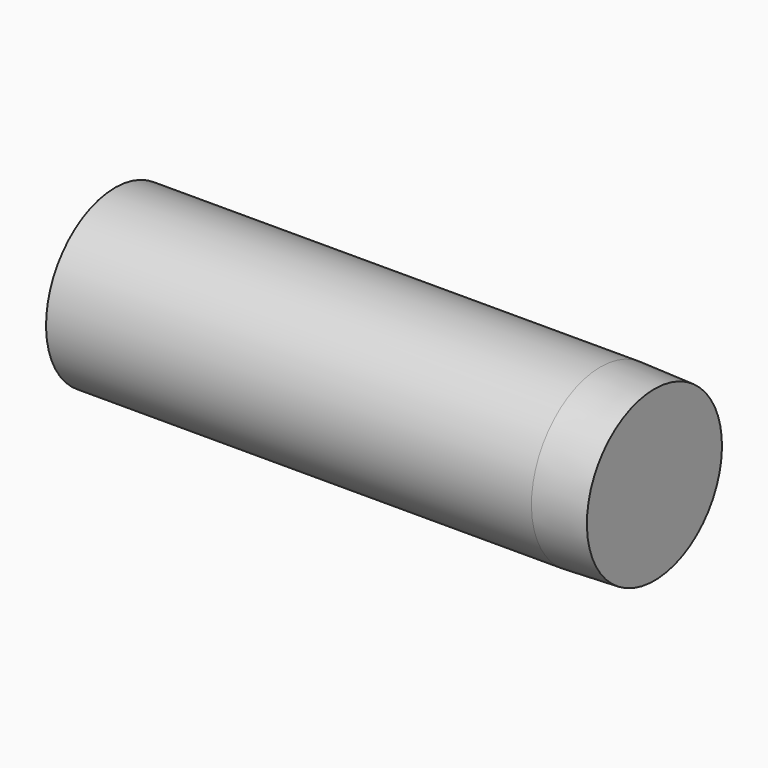
from build123d import *

# Parameters (mm, degrees)
F2_SIZE2 = 0.1746038475
F2_SIZE  = 5


with BuildPart() as f1:
    # F0 (on Front) → F1 (revolve)
    with BuildSketch(Plane.XZ):
        with BuildLine():
            Line((50, 0), (50, 8))
            Line((50, 8), (0, 8))
            ThreePointArc((0, 8), (-1.1217607948, 4.069705149), (-1.5, 0))
            Line((-1.5, 0), (0, 0))
            Line((0, 0), (50, 0))
        make_face()
    revolve(axis=Axis((24.25, 0, 0), (1, 0, 0)))

    # F2
    f2_edges = [f1.edges().sort_by_distance(p)[0] for p in [
        (50, 0, -8),
    ]]
    f2_side = f1.faces().sort_by_distance((25, 0, -8))[0]
    chamfer(f2_edges, length=F2_SIZE, length2=F2_SIZE2, reference=f2_side)


solid = f1.part
